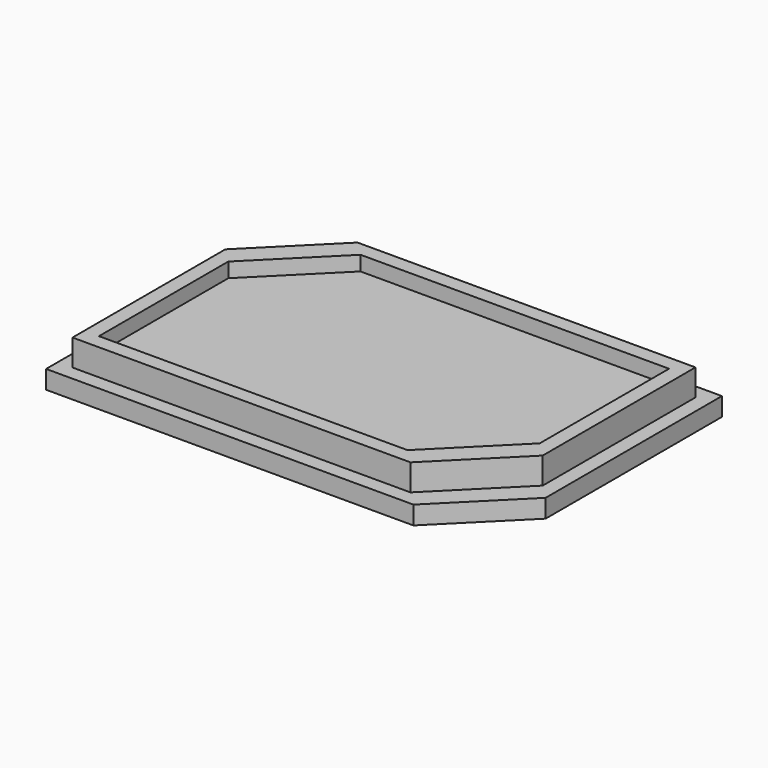
from build123d import *

# Parameters (mm, degrees)
F0_W     = 30
F0_H     = 20
F1_DEPTH = 1.25
F2_W     = 28
F2_H     = 18
F3_DEPTH = 1.8
F4_W     = 26
F4_H     = 16
F5_DEPTH = 1
F6_SIZE  = 5
F7_SIZE  = 5


with BuildPart() as f1:
    # F0 (on Top) → F1 (new body)
    with BuildSketch(Plane.XY):
        Rectangle(F0_W, F0_H)
    extrude(amount=F1_DEPTH)

    # F2 (on face) → F3 (join)
    with BuildSketch(Plane.XY.offset(1.25)):
        Rectangle(F2_W, F2_H)
    extrude(amount=F3_DEPTH)

    # F4 (on face) → F5 (cut)
    with BuildSketch(Plane.XY.offset(3.05)):
        Rectangle(F4_W, F4_H)
    extrude(amount=-F5_DEPTH, mode=Mode.SUBTRACT)

    # F6
    f6_edges = [f1.edges().sort_by_distance(p)[0] for p in [
        (-13, 8, 2.55),
        (13, -8, 2.55),
        (-14, 9, 2.15),
        (14, -9, 2.15),
    ]]
    chamfer(f6_edges, length=F6_SIZE)

    # F7
    f7_edges = [f1.edges().sort_by_distance(p)[0] for p in [
        (15, -10, 0.625),
        (-15, 10, 0.625),
    ]]
    chamfer(f7_edges, length=F7_SIZE)


solid = f1.part
